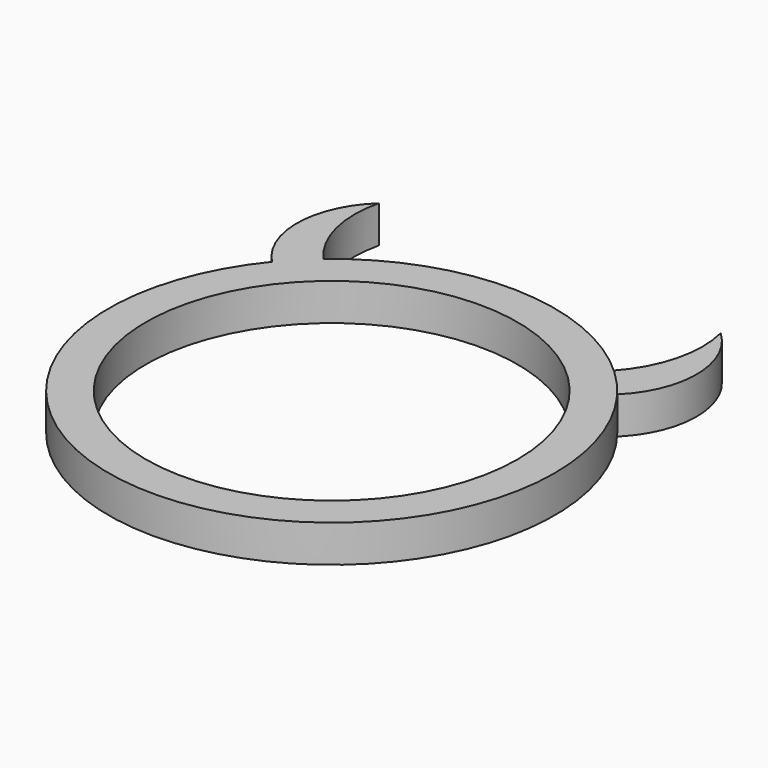
from build123d import *

# Parameters (mm, degrees)
EXTRUDE001_DEPTH           = 1
EXTRUDE_DEPTH              = 1
TUBE_R                     = 6
TUBE_R_2                   = 5
TUBE_DEPTH                 = 1
EXTRUDE002_DEPTH           = 1
EXTRUDE002_PLACEMENT_ANGLE = 180


with BuildPart() as extrude001:
    # Sketch → Extrude001 (new body)
    with BuildSketch(Plane.XY):
        with BuildLine():
            ThreePointArc((-5.554538, 7.282242), (-6.309564, 5.15544), (-4.995944, 3.320296))
            Line((-4.995944, 3.320296), (-4.163386, 3.976998))
            ThreePointArc((-5.554538, 7.282242), (-5.403982, 5.400225), (-4.163386, 3.976998))
        make_face()
    extrude(amount=EXTRUDE001_DEPTH)


with BuildPart() as extrude_body:
    # Sketch → Extrude (new body)
    with BuildSketch(Plane.XY):
        with BuildLine():
            ThreePointArc((-5.554538, 7.282242), (-6.309564, 5.15544), (-4.995944, 3.320296))
            Line((-4.995944, 3.320296), (-4.163386, 3.976998))
            ThreePointArc((-5.554538, 7.282242), (-5.403982, 5.400225), (-4.163386, 3.976998))
        make_face()
    extrude(amount=EXTRUDE_DEPTH)


with BuildPart() as tube:
    # Tube → Tube (new body)
    with BuildSketch(Plane(origin=(-1, 0, 0), x_dir=(1, 0, 0), z_dir=(0, 0, 1))):
        Circle(TUBE_R)
        Circle(TUBE_R_2, mode=Mode.SUBTRACT)
    extrude(amount=TUBE_DEPTH)


with BuildPart() as fusion:
    # Sketch001 → Extrude002 (new body)
    with BuildSketch(Plane.XY):
        with BuildLine():
            ThreePointArc((-5.554538, 7.282242), (-6.309564, 5.15544), (-4.995944, 3.320296))
            Line((-4.995944, 3.320296), (-4.163386, 3.976998))
            ThreePointArc((-5.554538, 7.282242), (-5.403982, 5.400225), (-4.163386, 3.976998))
        make_face()
    extrude(amount=EXTRUDE002_DEPTH)


with BuildPart() as fusion_1:
    # Extrude002 placement: moved
    add(fusion.part.moved(Location((-1.914214, 0, 0.914214))).rotate(Axis((-1.914214, 0, 0.914214), (0, 1, 0)), EXTRUDE002_PLACEMENT_ANGLE))

    # Fusion: union Extrude001, Extrude body, Tube
    add(extrude001.part)
    add(extrude_body.part)
    add(tube.part)


solid = fusion_1.part
